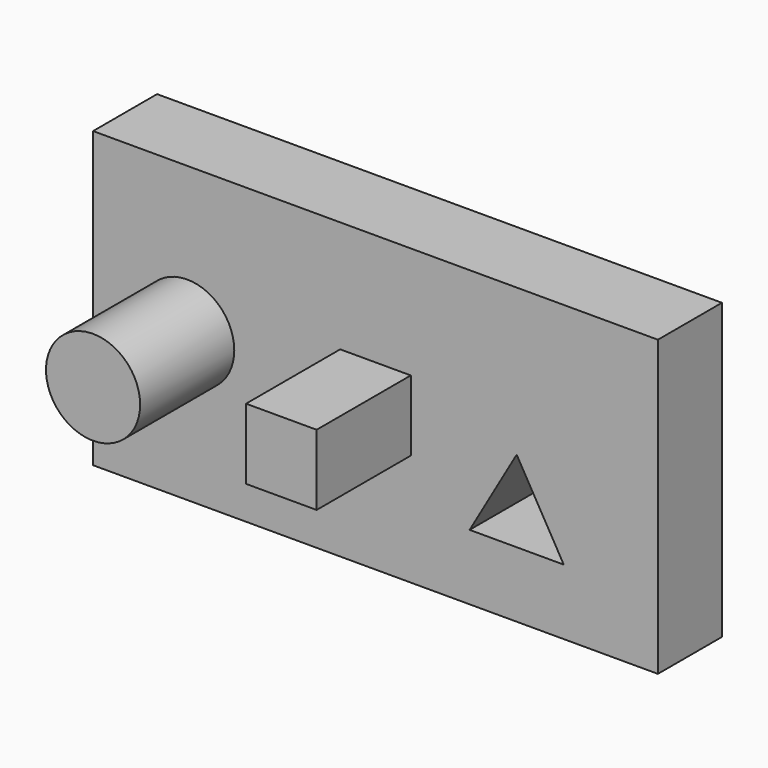
from build123d import *

# Parameters (mm, degrees)
F0_W     = 152.4
F0_H     = 79.375
F0_R     = 12.7
F0_W_2   = 19.05
F0_H_2   = 19.05
F1_DEPTH = 21.59
F2_DEPTH = 31.75
F3_DEPTH = 21.59
F4_DEPTH = 31.75


with BuildPart() as f1:
    # F0 (on Front) → F1 (new body)
    with BuildSketch(Plane.XZ):
        with Locations((-31.75, 0)):
            Rectangle(F0_W, F0_H)
        Polygon((-6.35, -21.997045), (6.35, 0), (19.05, -21.997045), align=None, mode=Mode.SUBTRACT)
        with Locations((-82.55, 0)):
            Circle(F0_R, mode=Mode.SUBTRACT)
        with Locations((-31.75, 0)):
            Rectangle(F0_W_2, F0_H_2, mode=Mode.SUBTRACT)
    extrude(amount=-F1_DEPTH)

    # F0 (on Front) → F2 (join)
    with BuildSketch(Plane.XZ):
        with Locations((-82.55, 0)):
            Circle(F0_R)
    extrude(amount=F2_DEPTH)


with BuildPart() as f3:
    # F0 (on Front) → F3 (new body)
    with BuildSketch(Plane.XZ):
        with Locations((-82.55, 0)):
            Circle(F0_R)
    extrude(amount=-F3_DEPTH)


with BuildPart() as f4:
    # F0 (on Front) → F4 (new body)
    with BuildSketch(Plane.XZ):
        with Locations((-31.75, 0)):
            Rectangle(F0_W_2, F0_H_2)
    extrude(amount=F4_DEPTH)


solid = Compound([f1.part, f3.part, f4.part])
